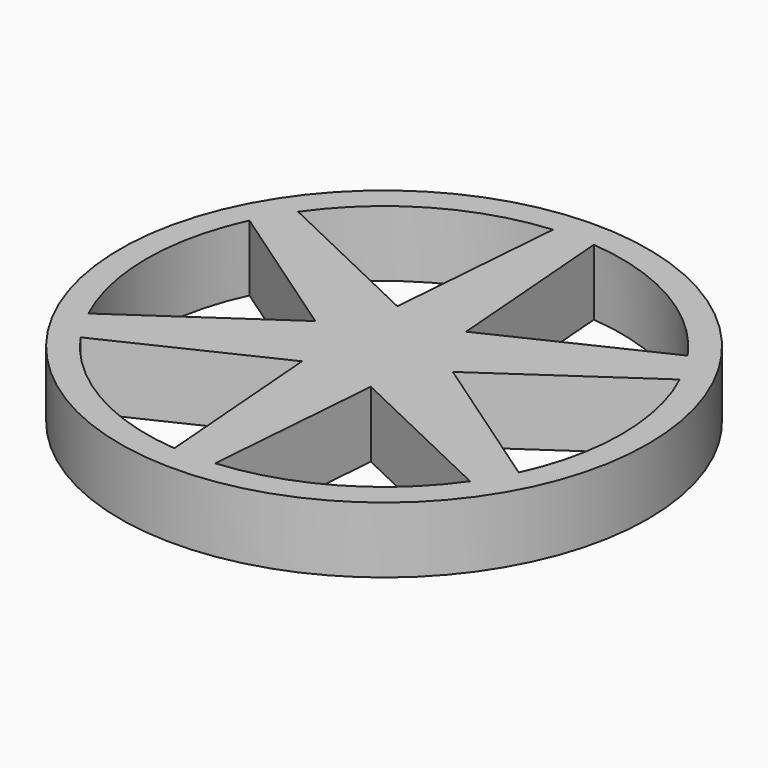
from build123d import *

# Parameters (mm, degrees)
F0_R     = 20
F1_DEPTH = 5


with BuildPart() as f1:
    # F0 (on Top) → F1 (new body)
    with BuildSketch(Plane.XY):
        Circle(F0_R)
        with BuildLine():
            Line((-14.757616, -10.305958), (-2.605141, -4.512237))
            Line((-2.605141, -4.512237), (-1.546413, -17.933449))
            ThreePointArc((-1.546413, -17.933449), (-9, -15.588457), (-14.757616, -10.305958))
        make_face(mode=Mode.SUBTRACT)
        with BuildLine():
            Line((1.546413, -17.933449), (2.605141, -4.512237))
            Line((2.605141, -4.512237), (14.757616, -10.305958))
            ThreePointArc((14.757616, -10.305958), (9, -15.588457), (1.546413, -17.933449))
        make_face(mode=Mode.SUBTRACT)
        with BuildLine():
            Line((16.304029, -7.627492), (5.210282, 0))
            Line((5.210282, 0), (16.304029, 7.627492))
            ThreePointArc((16.304029, 7.627492), (18, 0), (16.304029, -7.627492))
        make_face(mode=Mode.SUBTRACT)
        with BuildLine():
            Line((-16.304029, 7.627492), (-5.210282, 0))
            Line((-5.210282, 0), (-16.304029, -7.627492))
            ThreePointArc((-16.304029, -7.627492), (-18, 0), (-16.304029, 7.627492))
        make_face(mode=Mode.SUBTRACT)
        with BuildLine():
            ThreePointArc((-14.757616, 10.305958), (-9, 15.588457), (-1.546413, 17.933449))
            Line((-1.546413, 17.933449), (-2.605141, 4.512237))
            Line((-2.605141, 4.512237), (-14.757616, 10.305958))
        make_face(mode=Mode.SUBTRACT)
        with BuildLine():
            Line((14.757616, 10.305958), (2.605141, 4.512237))
            Line((2.605141, 4.512237), (1.546413, 17.933449))
            ThreePointArc((1.546413, 17.933449), (9, 15.588457), (14.757616, 10.305958))
        make_face(mode=Mode.SUBTRACT)
    extrude(amount=F1_DEPTH)


solid = f1.part
